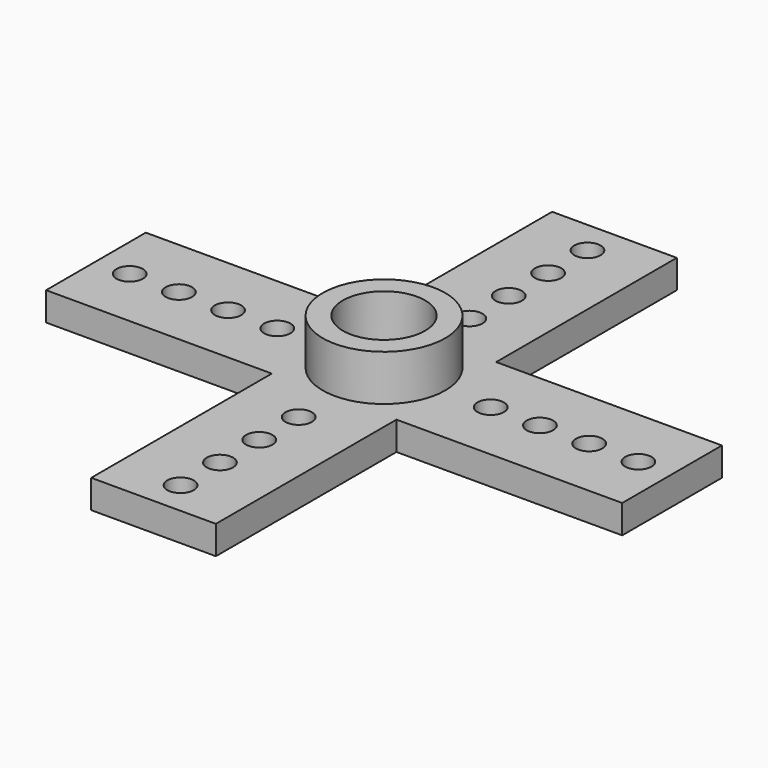
from build123d import *

# Parameters (mm, degrees)
F0_W     = 8.3312
F0_H     = 15.0876
F0_R     = 0.88265
F0_W_2   = 15.0876
F0_H_2   = 8.3312
F0_R_2   = 4.09575
F0_R_3   = 2.74955
F1_DEPTH = 1.905
F2_R     = 4.09575
F2_R_2   = 2.74955
F3_DEPTH = 3.0734
F4_R     = 3.5052
F4_R_2   = 2.9972
F5_DEPTH = 0.8255


with BuildPart() as f1:
    # F0 (on Top) → F1 (new body)
    with BuildSketch(Plane.XY):
        with Locations((0, 11.7094)):
            Rectangle(F0_W, F0_H)
        with Locations((0, 7.13105)):
            Circle(F0_R, mode=Mode.SUBTRACT)
        with Locations((0, 10.42035)):
            Circle(F0_R, mode=Mode.SUBTRACT)
        with Locations((0, 13.70965)):
            Circle(F0_R, mode=Mode.SUBTRACT)
        with Locations((0, 16.99895)):
            Circle(F0_R, mode=Mode.SUBTRACT)
        with Locations((11.7094, 0)):
            Rectangle(F0_W_2, F0_H_2)
        with Locations((7.13105, 0)):
            Circle(F0_R, mode=Mode.SUBTRACT)
        with Locations((10.42035, 0)):
            Circle(F0_R, mode=Mode.SUBTRACT)
        with Locations((13.70965, 0)):
            Circle(F0_R, mode=Mode.SUBTRACT)
        with Locations((16.99895, 0)):
            Circle(F0_R, mode=Mode.SUBTRACT)
        Rectangle(F0_W, F0_H_2)
        Circle(F0_R_2, mode=Mode.SUBTRACT)
        with Locations((-11.7094, 0)):
            Rectangle(F0_W_2, F0_H_2)
        with Locations((-16.99895, 0)):
            Circle(F0_R, mode=Mode.SUBTRACT)
        with Locations((-13.70965, 0)):
            Circle(F0_R, mode=Mode.SUBTRACT)
        with Locations((-10.42035, 0)):
            Circle(F0_R, mode=Mode.SUBTRACT)
        with Locations((-7.13105, 0)):
            Circle(F0_R, mode=Mode.SUBTRACT)
        with Locations((0, -11.7094)):
            Rectangle(F0_W, F0_H)
        with Locations((0, -16.99895)):
            Circle(F0_R, mode=Mode.SUBTRACT)
        with Locations((0, -13.70965)):
            Circle(F0_R, mode=Mode.SUBTRACT)
        with Locations((0, -10.42035)):
            Circle(F0_R, mode=Mode.SUBTRACT)
        with Locations((0, -7.13105)):
            Circle(F0_R, mode=Mode.SUBTRACT)
        Circle(F0_R_2)
        Circle(F0_R_3, mode=Mode.SUBTRACT)
        Circle(F0_R_3)
    extrude(amount=F1_DEPTH)

    # F2 (on face) → F3 (join)
    with BuildSketch(Plane.XY.offset(1.905)):
        Circle(F2_R)
        Circle(F2_R_2, mode=Mode.SUBTRACT)
    extrude(amount=F3_DEPTH)

    # F4 (on face) → F5 (join)
    with BuildSketch(Plane.XY):
        Circle(F4_R)
        Circle(F4_R_2, mode=Mode.SUBTRACT)
    extrude(amount=-F5_DEPTH)


solid = f1.part
